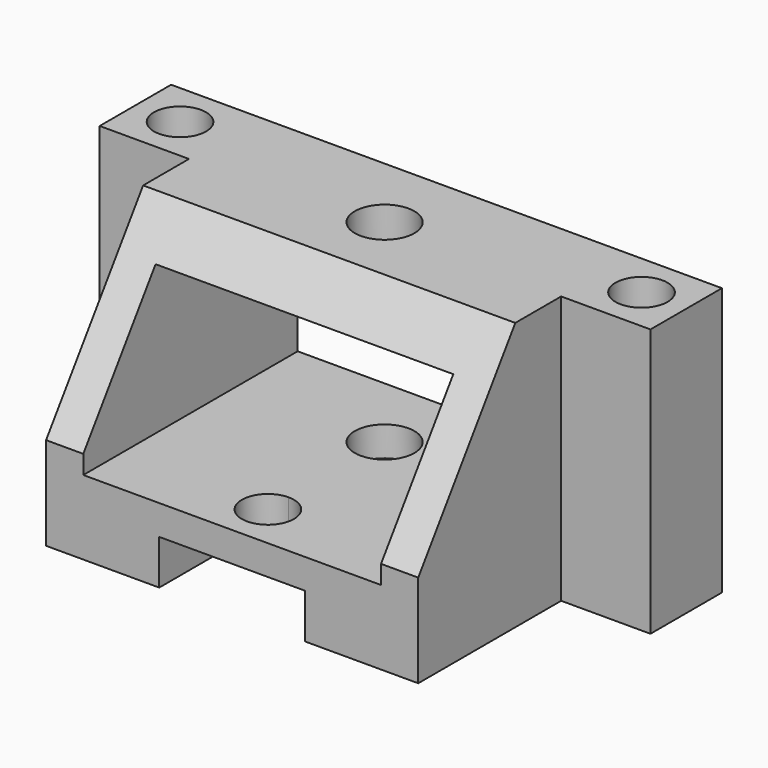
from build123d import *

# Parameters (mm, degrees)
F0_W     = 6
F0_H     = 6
F0_R     = 1.75
F2_DEPTH = 18
F1_W     = 9.8
F1_H     = 18
F3_DEPTH = 3
F4_W     = 10
F4_H     = 10
F5_DEPTH = 20
F8_DEPTH = 25
F9_DEPTH = 25


with BuildPart() as f2:
    # F0 (on Top) → F2 (new body)
    with BuildSketch(Plane.XY):
        Polygon((12.5, 9), (-12.5, 9), (-12.5, 3), (-12.5, -9), (12.5, -9), (12.5, 3), align=None)
        with BuildLine():
            ThreePointArc((-13.75, 6), (-16.737437, 7.237437), (-15.5, 4.25))
            ThreePointArc((-15.5, 4.25), (-14.262563, 4.762563), (-13.75, 6))
        make_face()
        Polygon((-12.5, 3), (-12.5, 9), (-18.5, 9), (-18.5, 3), (-15.5, 3), align=None)
        with BuildLine():
            ThreePointArc((-13.75, 6), (-14.262563, 4.762563), (-15.5, 4.25))
            ThreePointArc((-15.5, 4.25), (-16.737437, 7.237437), (-13.75, 6))
        make_face(mode=Mode.SUBTRACT)
        with Locations((15.5, 6)):
            Rectangle(F0_W, F0_H)
        with Locations((15.5, 6)):
            Circle(F0_R, mode=Mode.SUBTRACT)
    extrude(amount=F2_DEPTH)

    # F1 (on face) → F3 (cut)
    with BuildSketch(Plane.XY):
        Rectangle(F1_W, F1_H)
    extrude(amount=F3_DEPTH, mode=Mode.SUBTRACT)

    # F4 (on face) → F5 (cut)
    with BuildSketch(Plane.XZ.offset(9)):
        with Locations((5, 10)):
            Rectangle(F4_W, F4_H)
        with Locations((-5, 10)):
            Rectangle(F4_W, F4_H)
    extrude(amount=-F5_DEPTH, mode=Mode.SUBTRACT)

    # F7 (on face) → F8 (cut)
    with BuildSketch(Plane(origin=(-12.5, 0, 0), x_dir=(0, -1, 0), z_dir=(-1, 0, 0))):
        Polygon((0.850376, 18), (9, 6.250017), (9, 18), align=None)
    extrude(amount=-F8_DEPTH, mode=Mode.SUBTRACT)

    # F6 (on face) → F9 (cut)
    with BuildSketch(Plane.XY.offset(18)):
        with BuildLine():
            ThreePointArc((2, 3.8), (-1.414214, 5.214214), (0, 1.8))
            ThreePointArc((0, 1.8), (1.414214, 2.385786), (2, 3.8))
        make_face()
        with BuildLine():
            ThreePointArc((0, -4.25), (-1.75, -6), (0, -7.75))
            Line((0, -7.75), (0, -6))
            Line((0, -6), (0, -4.25))
        make_face()
        with BuildLine():
            Line((0, -6), (0, -7.75))
            ThreePointArc((0, -7.75), (1.237437, -7.237437), (1.75, -6))
            ThreePointArc((1.75, -6), (1.237437, -4.762563), (0, -4.25))
            Line((0, -4.25), (0, -6))
        make_face()
    extrude(amount=-F9_DEPTH, mode=Mode.SUBTRACT)


solid = f2.part
